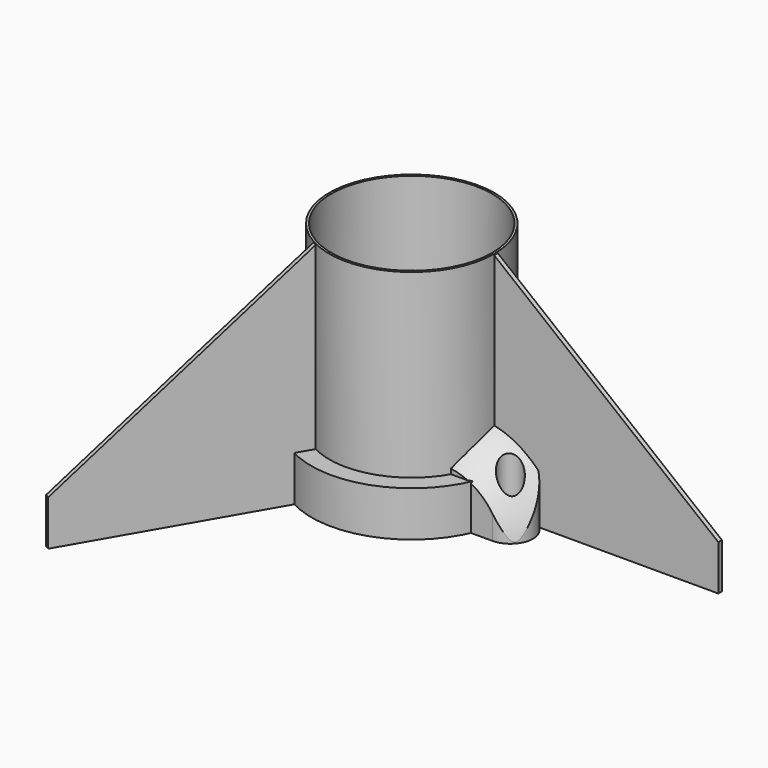
from build123d import *

# Parameters (mm, degrees)
CYLINDER001_R              = 17.75
CYLINDER001_DEPTH          = 50
CYLINDER_R                 = 18.25
CYLINDER_DEPTH             = 50
CYLINDER002_R              = 22.2
CYLINDER002_DEPTH          = 10
BOX_W                      = 50
BOX_H                      = 1
BOX_DEPTH                  = 50
CHAMFER001_SIZE2           = 49.9
CHAMFER001_SIZE            = 40
BOX002_W                   = 50
BOX002_H                   = 1
BOX002_DEPTH               = 50
CHAMFER002_SIZE2           = 49.9
CHAMFER002_SIZE            = 40
CHAMFER002_PLACEMENT_ANGLE = 120
BOX003_W                   = 50
BOX003_H                   = 1
BOX003_DEPTH               = 50
CHAMFER003_SIZE2           = 49.9
CHAMFER003_SIZE            = 40
CHAMFER003_PLACEMENT_ANGLE = 240
CYLINDER004_R              = 2.5
CYLINDER004_DEPTH          = 50
BOX001_W                   = 9.25
BOX001_H                   = 9
BOX001_DEPTH               = 50
CHAMFER_SIZE2              = 2.5
CHAMFER_SIZE               = 8.9
CYLINDER003_R              = 5
CYLINDER003_DEPTH          = 50


with BuildPart() as cylinder001:
    # Cylinder001 → Cylinder001 (new body)
    with BuildSketch(Plane.XY):
        Circle(CYLINDER001_R)
    extrude(amount=CYLINDER001_DEPTH)


with BuildPart() as tube:
    # Cylinder → Cylinder (new body)
    with BuildSketch(Plane.XY):
        Circle(CYLINDER_R)
    extrude(amount=CYLINDER_DEPTH)

    # Cut: cut Cylinder001
    add(cylinder001.part, mode=Mode.SUBTRACT)


with BuildPart() as nosecone_diameter_reference:
    # Cylinder002 → Cylinder002 (new body)
    with BuildSketch(Plane.XY):
        Circle(CYLINDER002_R)
    extrude(amount=CYLINDER002_DEPTH)


with BuildPart() as chamfer001:
    # Box → Box (new body)
    with BuildSketch(Plane(origin=(17.75, 0, 0), x_dir=(1, 0, 0), z_dir=(0, 0, 1))):
        with Locations((25, 0.5)):
            Rectangle(BOX_W, BOX_H)
    extrude(amount=BOX_DEPTH)

    # Chamfer001
    chamfer001_edges = [chamfer001.edges().sort_by_distance(p)[0] for p in [
        (67.75, 0.5, 50),
    ]]
    chamfer001_side = chamfer001.faces().sort_by_distance((67.75, 0.5, 25))[0]
    chamfer(chamfer001_edges, length=CHAMFER001_SIZE, length2=CHAMFER001_SIZE2, reference=chamfer001_side)


with BuildPart() as chamfer002:
    # Box002 → Box002 (new body)
    with BuildSketch(Plane(origin=(17.75, 0, 0), x_dir=(1, 0, 0), z_dir=(0, 0, 1))):
        with Locations((25, 0.5)):
            Rectangle(BOX002_W, BOX002_H)
    extrude(amount=BOX002_DEPTH)

    # Chamfer002
    chamfer002_edges = [chamfer002.edges().sort_by_distance(p)[0] for p in [
        (67.75, 0.5, 50),
    ]]
    chamfer002_side = chamfer002.faces().sort_by_distance((67.75, 0.5, 25))[0]
    chamfer(chamfer002_edges, length=CHAMFER002_SIZE, length2=CHAMFER002_SIZE2, reference=chamfer002_side)


with BuildPart() as chamfer002_1:
    # Chamfer002 placement: moved
    add(chamfer002.part.rotate(Axis((0, 0, 0), (0, 0, 1)), CHAMFER002_PLACEMENT_ANGLE))


with BuildPart() as chamfer003:
    # Box003 → Box003 (new body)
    with BuildSketch(Plane(origin=(17.75, 0, 0), x_dir=(1, 0, 0), z_dir=(0, 0, 1))):
        with Locations((25, 0.5)):
            Rectangle(BOX003_W, BOX003_H)
    extrude(amount=BOX003_DEPTH)

    # Chamfer003
    chamfer003_edges = [chamfer003.edges().sort_by_distance(p)[0] for p in [
        (67.75, 0.5, 50),
    ]]
    chamfer003_side = chamfer003.faces().sort_by_distance((67.75, 0.5, 25))[0]
    chamfer(chamfer003_edges, length=CHAMFER003_SIZE, length2=CHAMFER003_SIZE2, reference=chamfer003_side)


with BuildPart() as chamfer003_1:
    # Chamfer003 placement: moved
    add(chamfer003.part.rotate(Axis((0, 0, 0), (0, 0, 1)), CHAMFER003_PLACEMENT_ANGLE))


with BuildPart() as cylinder004:
    # Cylinder004 → Cylinder004 (new body)
    with BuildSketch(Plane(origin=(25, -4, 0), x_dir=(1, 0, 0), z_dir=(0, 0, 1))):
        Circle(CYLINDER004_R)
    extrude(amount=CYLINDER004_DEPTH)


with BuildPart() as sphere:
    # Sphere → Sphere (revolve)
    with BuildSketch(Plane(origin=(14, 6, -2), x_dir=(1, 0, 0), z_dir=(0, -1, 0))):
        with BuildLine():
            ThreePointArc((0, -20), (20, 0), (0, 20))
            Line((0, 20), (0, -20))
        make_face()
    revolve(axis=Axis((14, 6, -2), (0, 0, 1)))


with BuildPart() as chamfer_body:
    # Box001 → Box001 (new body)
    with BuildSketch(Plane(origin=(15.75, -9, 0), x_dir=(1, 0, 0), z_dir=(0, 0, 1))):
        with Locations((4.625, 4.5)):
            Rectangle(BOX001_W, BOX001_H)
    extrude(amount=BOX001_DEPTH)

    # Chamfer
    chamfer_edges = [chamfer_body.edges().sort_by_distance(p)[0] for p in [
        (15.75, 0, 25),
    ]]
    chamfer_side = chamfer_body.faces().sort_by_distance((15.75, -4.5, 25))[0]
    chamfer(chamfer_edges, length=CHAMFER_SIZE, length2=CHAMFER_SIZE2, reference=chamfer_side)


with BuildPart() as slider:
    # Cylinder003 → Cylinder003 (new body)
    with BuildSketch(Plane(origin=(25, -4, 0), x_dir=(1, 0, 0), z_dir=(0, 0, 1))):
        Circle(CYLINDER003_R)
    extrude(amount=CYLINDER003_DEPTH)

    # Fusion: union Chamfer body
    add(chamfer_body.part)

    # Common: intersect Sphere
    add(sphere.part, mode=Mode.INTERSECT)

    # Cut001: cut Cylinder004
    add(cylinder004.part, mode=Mode.SUBTRACT)


solid = Compound([tube.part, nosecone_diameter_reference.part, chamfer001.part, chamfer002_1.part, chamfer003_1.part, slider.part])
